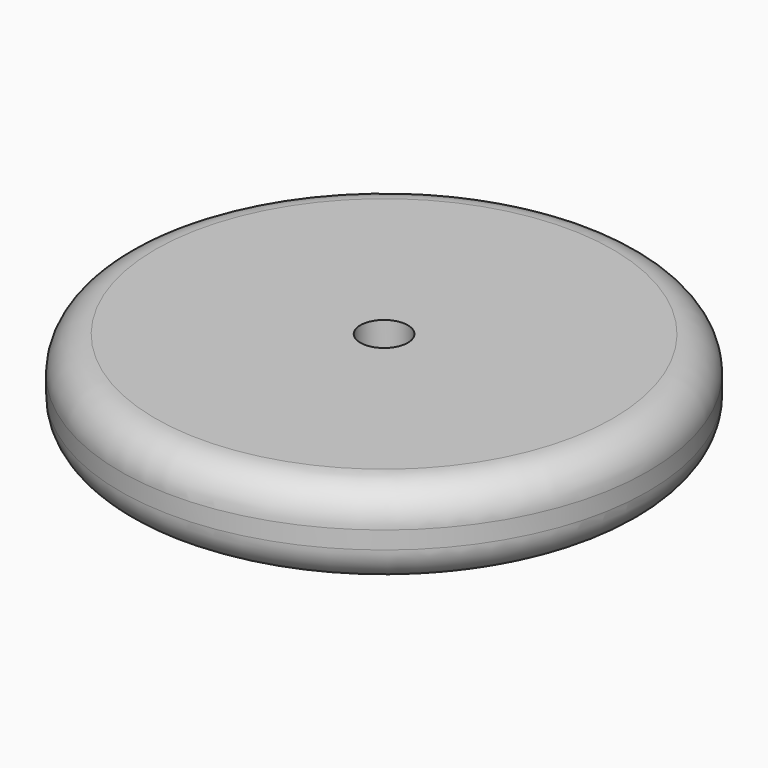
from build123d import *

# Parameters (mm, degrees)
F0_R     = 38.1
F1_DEPTH = 12.7
F2_R     = 5.08
F3_R     = 3.429
F4_DEPTH = 6.35


with BuildPart() as f1:
    # F0 (on Top) → F1 (new body)
    with BuildSketch(Plane.XY):
        Circle(F0_R)
    extrude(amount=F1_DEPTH)

    # F2
    f2_edges = [f1.edges().sort_by_distance(p)[0] for p in [
        (-38.1, 0, 0),
        (-38.1, 0, 12.7),
    ]]
    fillet(f2_edges, radius=F2_R)

    # F3 (on face) → F4 (cut)
    with BuildSketch(Plane.XY.offset(12.7)):
        Circle(F3_R)
    extrude(amount=-F4_DEPTH, mode=Mode.SUBTRACT)


solid = f1.part
